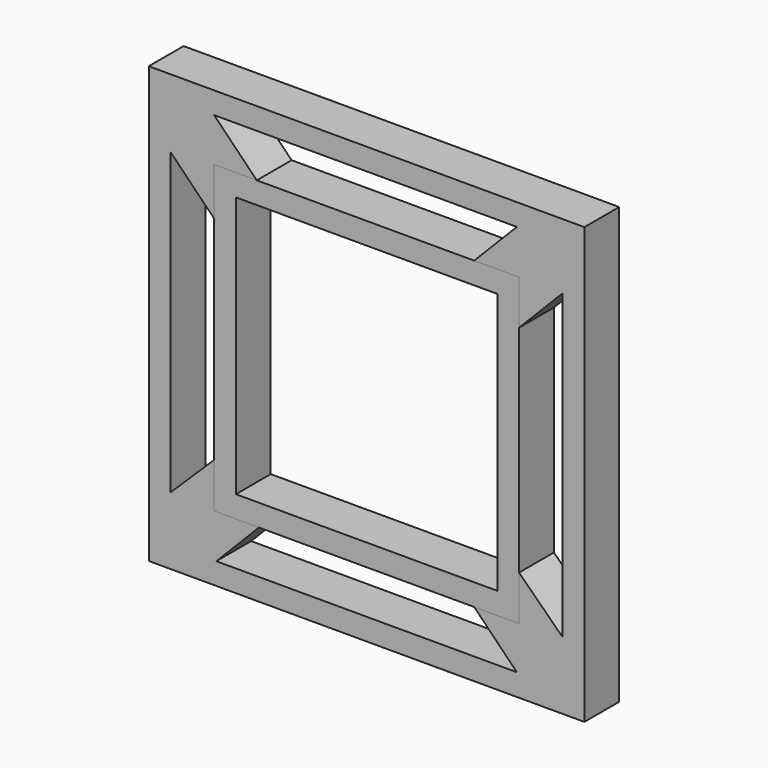
from build123d import *

# Parameters (mm, degrees)
F1_W     = 152.4
F1_H     = 152.4
F2_DEPTH = 25.4
F0_W     = 254
F0_H     = 254


with BuildPart() as f2:
    # F1 (on face) → F2 (new body)
    with BuildSketch(Plane.XZ):
        Polygon((26.1568157867, 211.8548386488), (0, 211.8548386488), (-126.7563684266, 211.8548386488), (-151.6431842133, 211.8548386488), (-151.6431842133, 184.1111174377), (-151.6431842133, 60.2116544355), (-151.6431842133, 34.0548386488), (-125.4863684266, 34.0548386488), (0, 34.0548386488), (26.1568157867, 34.0548386488), (26.1568157867, 60.2116544355), (26.1568157867, 185.9310722044), align=None)
        with Locations((-62.7431842133, 122.9548386488)):
            Rectangle(F1_W, F1_H, mode=Mode.SUBTRACT)
    extrude(amount=F2_DEPTH)


with BuildPart() as f2b:
    # F0 (on Front) → F2, piece 2 (new body)
    with BuildSketch(Plane.XZ):
        with Locations((-62.7431842133, 122.9548386488)):
            Rectangle(F0_W, F0_H)
        Polygon((-177.0431842133, 210.0348838822), (-177.0431842133, 237.2548386488), (-151.6431842133, 237.2548386488), (24.8868157867, 237.2548386488), (51.5568157867, 237.2548386488), (51.5568157867, 211.8548386488), (51.5568157867, 35.3248386488), (51.5568157867, 8.6548386488), (24.8868157867, 8.6548386488), (-150.3731842133, 8.6548386488), (-177.0431842133, 8.6548386488), (-177.0431842133, 35.3248386488), align=None, mode=Mode.SUBTRACT)
        Polygon((-151.6431842133, 237.2548386488), (-177.0431842133, 237.2548386488), (-177.0431842133, 210.0348838822), (-151.6431842133, 184.1111174377), (-151.6431842133, 211.8548386488), (-126.7563684266, 211.8548386488), align=None)
        Polygon((51.5568157867, 237.2548386488), (24.8868157867, 237.2548386488), (0, 211.8548386488), (26.1568157867, 211.8548386488), (26.1568157867, 185.9310722044), (51.5568157867, 211.8548386488), align=None)
        Polygon((51.5568157867, 8.6548386488), (51.5568157867, 35.3248386488), (26.1568157867, 60.2116544355), (26.1568157867, 34.0548386488), (0, 34.0548386488), (24.8868157867, 8.6548386488), align=None)
        Polygon((-151.6431842133, 60.2116544355), (-177.0431842133, 35.3248386488), (-177.0431842133, 8.6548386488), (-150.3731842133, 8.6548386488), (-125.4863684266, 34.0548386488), (-151.6431842133, 34.0548386488), align=None)
    extrude(amount=F2_DEPTH)


solid = Compound([f2.part, f2b.part])
